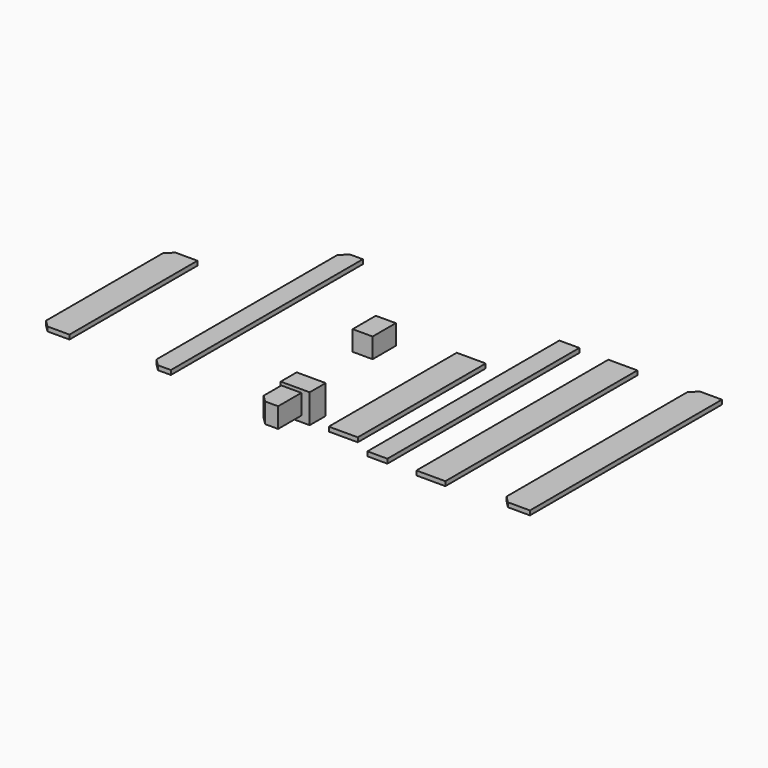
from build123d import *

# Parameters (mm, degrees)
F0_W      = 145
F0_H      = 100
F1_DEPTH  = 145
F2_W      = 100
F2_H      = 145
F3_DEPTH  = 100
F4_SIZE   = 35
F5_W      = 100
F5_H      = 1200
F6_DEPTH  = 22
F7_SIZE   = 35
F8_SIZE   = 35
F9_W      = 145
F9_H      = 800
F10_DEPTH = 22
F11_W     = 145
F11_H     = 1200
F12_DEPTH = 22
F13_W     = 145
F13_H     = 1200
F14_DEPTH = 22
F15_SIZE  = 35
F16_W     = 100
F16_H     = 1200
F17_DEPTH = 22
F18_W     = 145
F18_H     = 800
F19_DEPTH = 22
F20_SIZE  = 35
F21_W     = 100
F21_H     = 145
F22_DEPTH = 100


with BuildPart() as f1:
    # F0 (on Top) → F1 (new body)
    with BuildSketch(Plane.XY):
        Rectangle(F0_W, F0_H)
    extrude(amount=-F1_DEPTH)


with BuildPart() as f3:
    # F2 (on Top) → F3 (new body)
    with BuildSketch(Plane.XY):
        with Locations((0, -146.688203)):
            Rectangle(F2_W, F2_H)
    extrude(amount=-F3_DEPTH)

    # F4
    f4_edges = [f3.edges().sort_by_distance(p)[0] for p in [
        (-50, -219.188203, -50),
    ]]
    chamfer(f4_edges, length=F4_SIZE)


with BuildPart() as f6:
    # F5 (on Top) → F6 (new body)
    with BuildSketch(Plane.XY):
        with Locations((-518.386108, 358.45705)):
            Rectangle(F5_W, F5_H)
    extrude(amount=-F6_DEPTH)

    # F7
    f7_edges = [f6.edges().sort_by_distance(p)[0] for p in [
        (-568.386108, -241.54295, -11),
    ]]
    chamfer(f7_edges, length=F7_SIZE)

    # F8
    f8_edges = [f6.edges().sort_by_distance(p)[0] for p in [
        (-568.386108, 958.45705, -11),
    ]]
    chamfer(f8_edges, length=F8_SIZE)


with BuildPart() as f10:
    # F9 (on Top) → F10 (new body)
    with BuildSketch(Plane.XY):
        with Locations((384.427071, 169.981331)):
            Rectangle(F9_W, F9_H)
    extrude(amount=-F10_DEPTH)


with BuildPart() as f12:
    # F11 (on Top) → F12 (new body)
    with BuildSketch(Plane.XY):
        with Locations((883.413509, 293.959216)):
            Rectangle(F11_W, F11_H)
    extrude(amount=-F12_DEPTH)


with BuildPart() as f14:
    # F13 (on Top) → F14 (new body)
    with BuildSketch(Plane.XY):
        with Locations((1295.853376, 307.212517)):
            Rectangle(F13_W, F13_H)
    extrude(amount=-F14_DEPTH)

    # F15
    f15_edges = [f14.edges().sort_by_distance(p)[0] for p in [
        (1223.353376, -292.787483, -11),
        (1223.353376, 907.212517, -11),
    ]]
    chamfer(f15_edges, length=F15_SIZE)


with BuildPart() as f17:
    # F16 (on Top) → F17 (new body)
    with BuildSketch(Plane.XY):
        with Locations((610.41508, 300.914243)):
            Rectangle(F16_W, F16_H)
    extrude(amount=-F17_DEPTH)


with BuildPart() as f19:
    # F18 (on Top) → F19 (new body)
    with BuildSketch(Plane.XY):
        with Locations((-1037.402034, 145.142138)):
            Rectangle(F18_W, F18_H)
    extrude(amount=-F19_DEPTH)

    # F20
    f20_edges = [f19.edges().sort_by_distance(p)[0] for p in [
        (-1109.902034, -254.857862, -11),
        (-1109.902034, 545.142138, -11),
    ]]
    chamfer(f20_edges, length=F20_SIZE)


with BuildPart() as f22:
    # F21 (on Top) → F22 (new body)
    with BuildSketch(Plane.XY):
        with Locations((-80.200352, 544.269443)):
            Rectangle(F21_W, F21_H)
    extrude(amount=-F22_DEPTH)


solid = Compound([f1.part, f3.part, f6.part, f10.part, f12.part, f14.part, f17.part, f19.part, f22.part])
